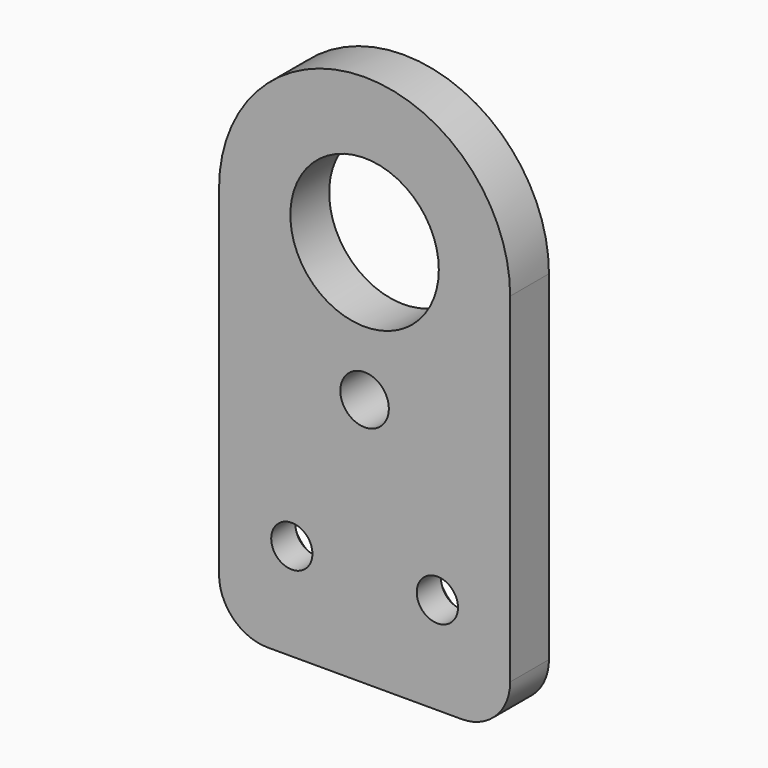
from build123d import *

# Parameters (mm, degrees)
F0_R           = 2.5
F0_R_2         = 7.65
F1_DEPTH       = 5
F2_D           = 4.25
F2_CSINK_D     = 8
F2_CSINK_ANGLE = 90
F3_R           = 5


with BuildPart() as f1:
    # F0 (on Front) → F1 (new body)
    with BuildSketch(Plane.XZ):
        with BuildLine():
            Line((-15, 0), (0, 0))
            Line((0, 0), (15, 0))
            Line((15, 0), (15, 40))
            ThreePointArc((15, 40), (0, 55), (-15, 40))
            Line((-15, 40), (-15, 0))
        make_face()
        with Locations((0, 25.7251504809)):
            Circle(F0_R, mode=Mode.SUBTRACT)
        with Locations((0, 40)):
            Circle(F0_R_2, mode=Mode.SUBTRACT)
    extrude(amount=F1_DEPTH)

    # F2 (through all)
    with Locations(Plane(origin=(0, 0, 0), x_dir=(1, 0, 0), z_dir=(0, 1, 0))):
        with Locations((-7.5, -10), (7.5, -10)):
            CounterSinkHole(F2_D / 2, F2_CSINK_D / 2, counter_sink_angle=F2_CSINK_ANGLE)

    # F3
    f3_edges = [f1.edges().sort_by_distance(p)[0] for p in [
        (-15, -2.5, 0),
        (15, -2.5, 0),
    ]]
    fillet(f3_edges, radius=F3_R)


solid = f1.part
